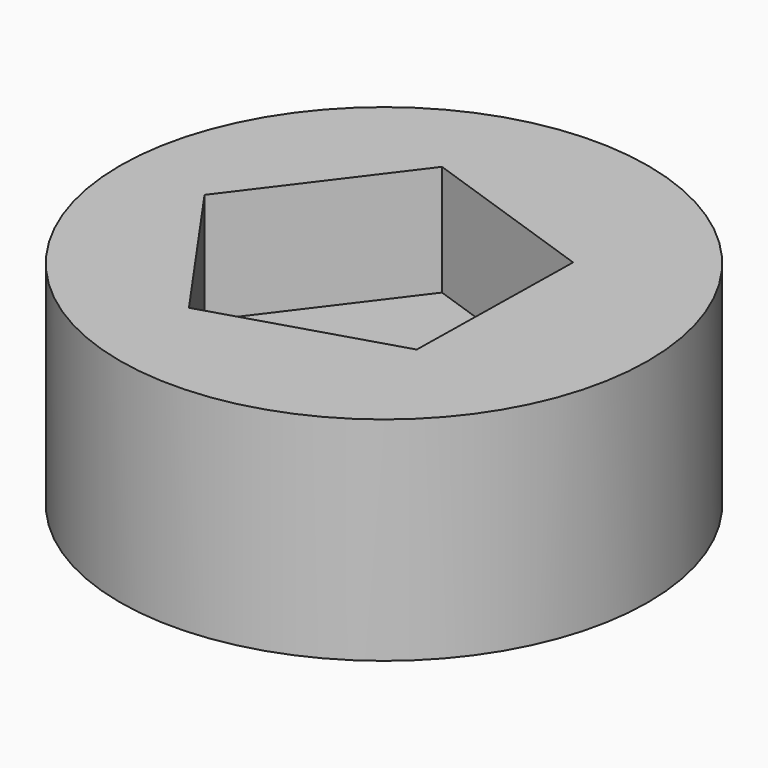
from build123d import *

# Parameters (mm, degrees)
F0_R     = 60.598645
F1_DEPTH = 48.768
F3_DEPTH = 25.4


with BuildPart() as f1:
    # F0 (on Top) → F1 (new body)
    with BuildSketch(Plane.XY):
        Circle(F0_R)
    extrude(amount=F1_DEPTH)

    # F2 (on face) → F3 (cut)
    with BuildSketch(Plane.XY.offset(48.768)):
        Polygon((-15.270104, 35.718166), (-41.690668, 0.64662), (-16.500049, -35.318533), (25.489174, -22.474674), (26.249321, 21.428421), align=None)
    extrude(amount=-F3_DEPTH, mode=Mode.SUBTRACT)


solid = f1.part
